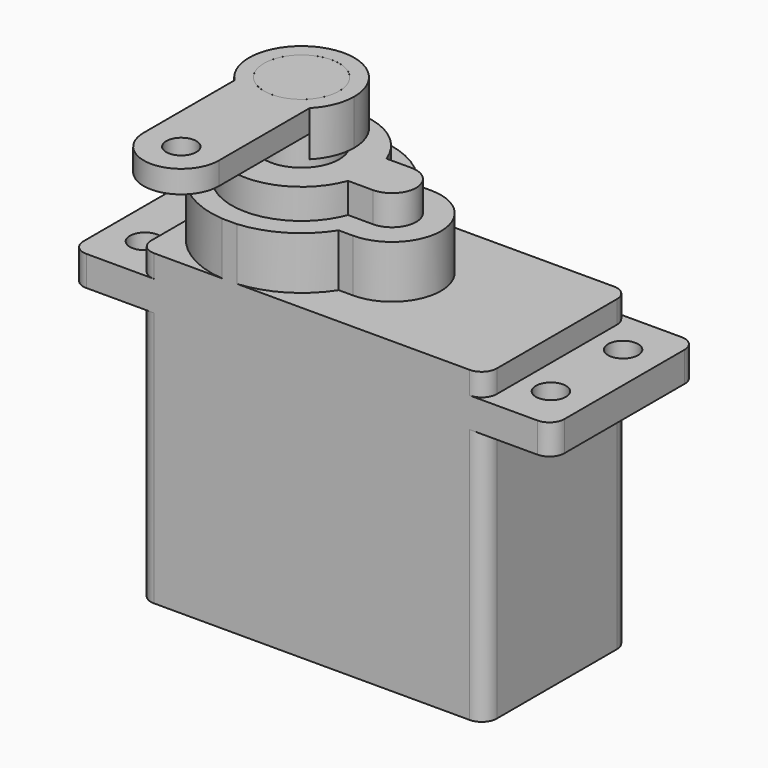
from build123d import *

# Parameters (mm, degrees)
F0_W      = 23
F0_H      = 12
F1_DEPTH  = 17
F2_W      = 32
F2_H      = 12
F2_R      = 1
F3_DEPTH  = 2
F5_DEPTH  = 24
F6_DEPTH  = 26
F7_DEPTH  = 3.5
F8_R      = 1
F9_R      = 2.5
F10_DEPTH = 30
F11_R     = 1
F12_DEPTH = 1.5
F13_DEPTH = 3


with BuildPart() as f1:
    # F0 (on Top) → F1 (new body)
    with BuildSketch(Plane.XY):
        with Locations((5.4802, 0)):
            Rectangle(F0_W, F0_H)
    extrude(amount=-F1_DEPTH)

    # F2 (on face) → F3 (join)
    with BuildSketch(Plane.XY):
        with Locations((5.4802, 0)):
            Rectangle(F2_W, F2_H)
        with Locations((-8.0198, -3)):
            Circle(F2_R, mode=Mode.SUBTRACT)
        with Locations((18.9802, -3)):
            Circle(F2_R, mode=Mode.SUBTRACT)
        with Locations((-8.0198, 3)):
            Circle(F2_R, mode=Mode.SUBTRACT)
        with Locations((18.9802, 3)):
            Circle(F2_R, mode=Mode.SUBTRACT)
    extrude(amount=F3_DEPTH)

    # F4 (on face) → F5 (join)
    with BuildSketch(Plane(origin=(0, 0, -17), x_dir=(1, 0, 0), z_dir=(0, 0, -1))):
        with BuildLine():
            ThreePointArc((0.4878442784, -6), (3.0991891911, -5.1607187869), (5.0670989767, -3.25))
            Line((5.0670989767, -3.25), (6.0198, -3.25))
            ThreePointArc((6.0198, -3.25), (9.2698, 0), (6.0198, 3.25))
            Line((6.0198, 3.25), (5.0670989767, 3.25))
            ThreePointArc((5.0670989767, 3.25), (3.0991891911, 5.1607187869), (0.4878442784, 6))
            Line((0.4878442784, 6), (-0.4878442784, 6))
            ThreePointArc((-0.4878442784, 6), (-4.4257607836, 4.0805187815), (-6.0198, 0))
            ThreePointArc((-6.0198, 0), (-4.4257607836, -4.0805187815), (-0.4878442784, -6))
            Line((-0.4878442784, -6), (0.4878442784, -6))
        make_face()
        with BuildLine():
            Line((6.0198, -1.6), (5.8032742517, -1.6))
            Line((5.8032742517, -1.6), (4.3660622991, -1.6))
            ThreePointArc((4.3660622991, -1.6), (-4.65, 0), (4.3660622991, 1.6))
            Line((4.3660622991, 1.6), (6.0198, 1.6))
            ThreePointArc((6.0198, 1.6), (7.6198, 0), (6.0198, -1.6))
        make_face(mode=Mode.SUBTRACT)
        with BuildLine():
            ThreePointArc((4.3660622991, 1.6), (-4.65, 0), (4.3660622991, -1.6))
            ThreePointArc((4.3660622991, -1.6), (4.5784653374, -0.8124993258), (4.65, 0))
            ThreePointArc((4.65, 0), (4.5784653374, 0.8124993258), (4.3660622991, 1.6))
        make_face()
        with BuildLine():
            Line((4.3660622991, -1.6), (5.8032742517, -1.6))
            Line((5.8032742517, -1.6), (6.0198, -1.6))
            ThreePointArc((6.0198, -1.6), (7.6198, 0), (6.0198, 1.6))
            Line((6.0198, 1.6), (4.3660622991, 1.6))
            ThreePointArc((4.3660622991, 1.6), (4.5784653374, 0.8124993258), (4.65, 0))
            ThreePointArc((4.65, 0), (4.5784653374, -0.8124993258), (4.3660622991, -1.6))
        make_face()
    extrude(amount=-F5_DEPTH)

    # F4 (on face) → F6 (join)
    with BuildSketch(Plane(origin=(0, 0, -17), x_dir=(1, 0, 0), z_dir=(0, 0, -1))):
        with BuildLine():
            ThreePointArc((4.3660622991, 1.6), (-4.65, 0), (4.3660622991, -1.6))
            ThreePointArc((4.3660622991, -1.6), (4.5784653374, -0.8124993258), (4.65, 0))
            ThreePointArc((4.65, 0), (4.5784653374, 0.8124993258), (4.3660622991, 1.6))
        make_face()
        with BuildLine():
            Line((4.3660622991, -1.6), (5.8032742517, -1.6))
            Line((5.8032742517, -1.6), (6.0198, -1.6))
            ThreePointArc((6.0198, -1.6), (7.6198, 0), (6.0198, 1.6))
            Line((6.0198, 1.6), (4.3660622991, 1.6))
            ThreePointArc((4.3660622991, 1.6), (4.5784653374, 0.8124993258), (4.65, 0))
            ThreePointArc((4.65, 0), (4.5784653374, -0.8124993258), (4.3660622991, -1.6))
        make_face()
    extrude(amount=-F6_DEPTH)

    # F0 (on Top) → F7 (join)
    with BuildSketch(Plane.XY):
        with Locations((5.4802, 0)):
            Rectangle(F0_W, F0_H)
    extrude(amount=F7_DEPTH)

    # F8
    f8_edges = [f1.edges().sort_by_distance(p)[0] for p in [
        (16.9802, -6, -8.5),
        (16.9802, 6, -8.5),
        (-6.0198, -6, -8.5),
        (-6.0198, 6, -8.5),
        (-10.5198, -6, 1),
        (-10.5198, 6, 1),
        (21.4802, 6, 1),
        (21.4802, -6, 1),
        (16.9802, 6, 2.75),
        (16.9802, -6, 2.75),
        (-6.0198, 6, 2.75),
        (-6.0198, -6, 2.75),
    ]]
    fillet(f8_edges, radius=F8_R)

    # F9 (on face) → F10 (join)
    with BuildSketch(Plane(origin=(0, 0, -17), x_dir=(1, 0, 0), z_dir=(0, 0, -1))):
        Circle(F9_R)
    extrude(amount=-F10_DEPTH)


with BuildPart() as f12:
    # F11 (on face) → F12 (new body)
    with BuildSketch(Plane.XY.offset(13)):
        with BuildLine():
            ThreePointArc((-2.5, -10), (0, -7.5), (2.5, -10))
            Line((2.5, -10), (2.5, -2.4494897428))
            ThreePointArc((2.5, -2.4494897428), (0, -3.5), (-2.5, -2.4494897428))
            Line((-2.5, -2.4494897428), (-2.5, -10))
        make_face()
        with BuildLine():
            ThreePointArc((-2.5, -2.4494897428), (0, -3.5), (2.5, -2.4494897428))
            Line((2.5, -2.4494897428), (2.5, 0))
            ThreePointArc((2.5, 0), (0, -2.5), (-2.5, 0))
            Line((-2.5, 0), (-2.5, -2.4494897428))
        make_face()
        with BuildLine():
            ThreePointArc((-2.5, -10), (0, -12.5), (2.5, -10))
            ThreePointArc((2.5, -10), (0, -7.5), (-2.5, -10))
        make_face()
        with Locations((0, -10)):
            Circle(F11_R, mode=Mode.SUBTRACT)
    extrude(amount=-F12_DEPTH)

    # F11 (on face) → F13 (join)
    with BuildSketch(Plane.XY.offset(13)):
        with BuildLine():
            Line((2.5, 0), (2.5, -2.4494897428))
            ThreePointArc((2.5, -2.4494897428), (3.2403703492, -1.3228756555), (3.5, 0))
            ThreePointArc((3.5, 0), (-1.3228756555, 3.2403703492), (-2.5, -2.4494897428))
            Line((-2.5, -2.4494897428), (-2.5, 0))
            ThreePointArc((-2.5, 0), (0, 2.5), (2.5, 0))
        make_face()
    extrude(amount=-F13_DEPTH)


solid = Compound([f1.part, f12.part])
